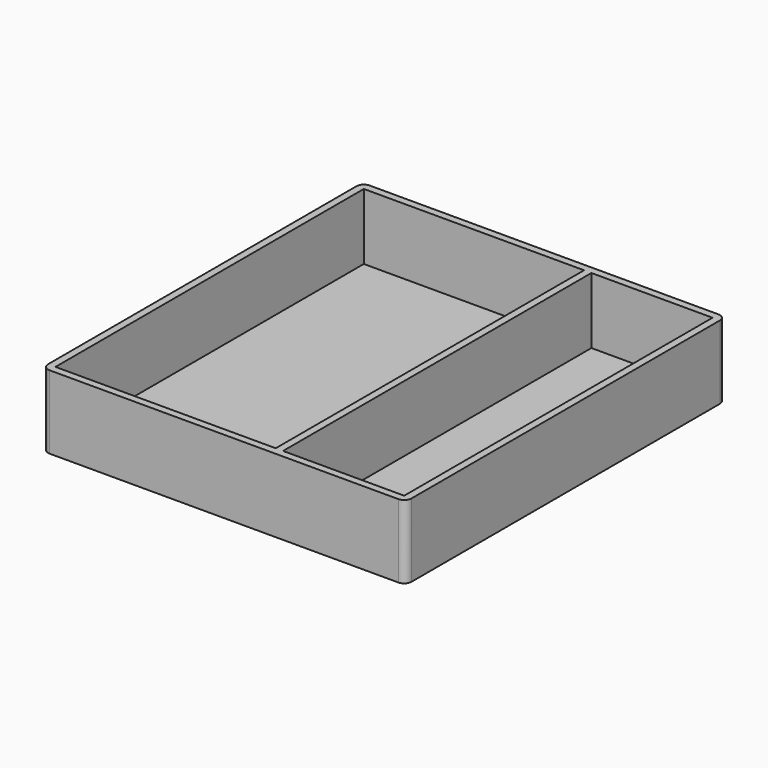
from build123d import *

# Parameters (mm, degrees)
F0_W     = 99
F0_H     = 109
F1_DEPTH = 20
F2_T     = -2
F3_W     = 2
F3_H     = 105
F4_DEPTH = 18
F5_R     = 2


with BuildPart() as f1:
    # F0 (on Top) → F1 (new body)
    with BuildSketch(Plane.XY):
        with Locations((1.24195, 3.062002)):
            Rectangle(F0_W, F0_H)
    extrude(amount=F1_DEPTH)

    # F2
    f2_openings = [f1.faces().sort_by_distance(p)[0] for p in [
        (1.24195, 3.062002, 20),
    ]]
    offset(amount=F2_T, openings=f2_openings)

    # F3 (on face) → F4 (join, through all)
    with BuildSketch(Plane.XY.offset(2)):
        with Locations((14.74195, 3.062002)):
            Rectangle(F3_W, F3_H)
    extrude(amount=F4_DEPTH)

    # F5
    f5_edges = [f1.edges().sort_by_distance(p)[0] for p in [
        (-48.25805, 57.562002, 10),
        (-48.25805, -51.437998, 10),
        (50.74195, -51.437998, 10),
        (50.74195, 57.562002, 10),
    ]]
    fillet(f5_edges, radius=F5_R)


solid = f1.part
